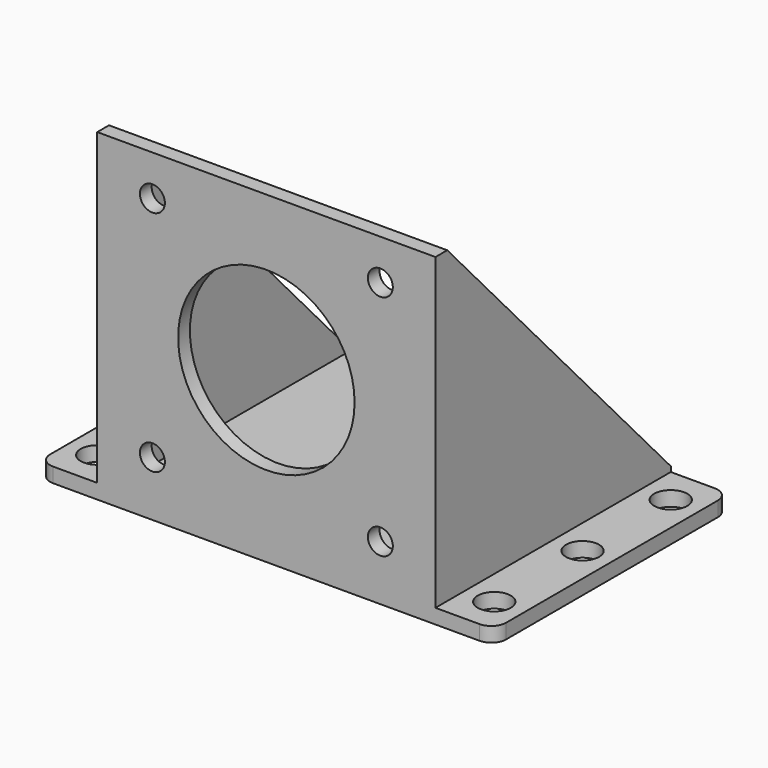
from build123d import *

# Parameters (mm, degrees)
F0_R     = 2.25
F1_DEPTH = 2
F2_W     = 46
F2_H     = 44
F2_R     = 1.7
F2_R_2   = 12
F3_DEPTH = 2
F5_DEPTH = 2
F6_START = -44
F6_DEPTH = 2


with BuildPart() as f1:
    # F0 (on Top) → F1 (new body)
    with BuildSketch(Plane.XY):
        with BuildLine():
            ThreePointArc((0, 2), (0.5857864376, 0.5857864376), (2, 0))
            Line((2, 0), (60, 0))
            ThreePointArc((60, 0), (61.4142135624, 0.5857864376), (62, 2))
            Line((62, 2), (62, 38))
            ThreePointArc((62, 38), (61.4142135624, 39.4142135624), (60, 40))
            Line((60, 40), (2, 40))
            ThreePointArc((2, 40), (0.5857864376, 39.4142135624), (0, 38))
            Line((0, 38), (0, 2))
        make_face()
        with Locations((4, 5)):
            Circle(F0_R, mode=Mode.SUBTRACT)
        with Locations((58, 5)):
            Circle(F0_R, mode=Mode.SUBTRACT)
        with Locations((4, 20)):
            Circle(F0_R, mode=Mode.SUBTRACT)
        with Locations((4, 35)):
            Circle(F0_R, mode=Mode.SUBTRACT)
        with Locations((58, 20)):
            Circle(F0_R, mode=Mode.SUBTRACT)
        with Locations((58, 35)):
            Circle(F0_R, mode=Mode.SUBTRACT)
    extrude(amount=F1_DEPTH)

    # F2 (on Front) → F3 (join)
    with BuildSketch(Plane.XZ):
        with Locations((31, 22)):
            Rectangle(F2_W, F2_H)
        with Locations((15.5, 7.5)):
            Circle(F2_R, mode=Mode.SUBTRACT)
        with Locations((46.5, 7.5)):
            Circle(F2_R, mode=Mode.SUBTRACT)
        with Locations((15.5, 38.5)):
            Circle(F2_R, mode=Mode.SUBTRACT)
        with Locations((31, 23)):
            Circle(F2_R_2, mode=Mode.SUBTRACT)
        with Locations((46.5, 38.5)):
            Circle(F2_R, mode=Mode.SUBTRACT)
    extrude(amount=-F3_DEPTH)

    # F4 (on face) → F5 (join)
    with BuildSketch(Plane(origin=(8, 0, 0), x_dir=(0, -1, 0), z_dir=(-1, 0, 0))):
        Polygon((0, 44), (-2, 44), (-40, 2.6966344009), (-40, 0), (0, 0), align=None)
    extrude(amount=-F5_DEPTH)

    # F4 (on face) → F6 (join)
    with BuildSketch(Plane(origin=(8, 0, 0), x_dir=(0, -1, 0), z_dir=(-1, 0, 0)).offset(F6_START)):
        Polygon((0, 44), (-2, 44), (-40, 2.6966344009), (-40, 0), (0, 0), align=None)
    extrude(amount=-F6_DEPTH)


solid = f1.part
